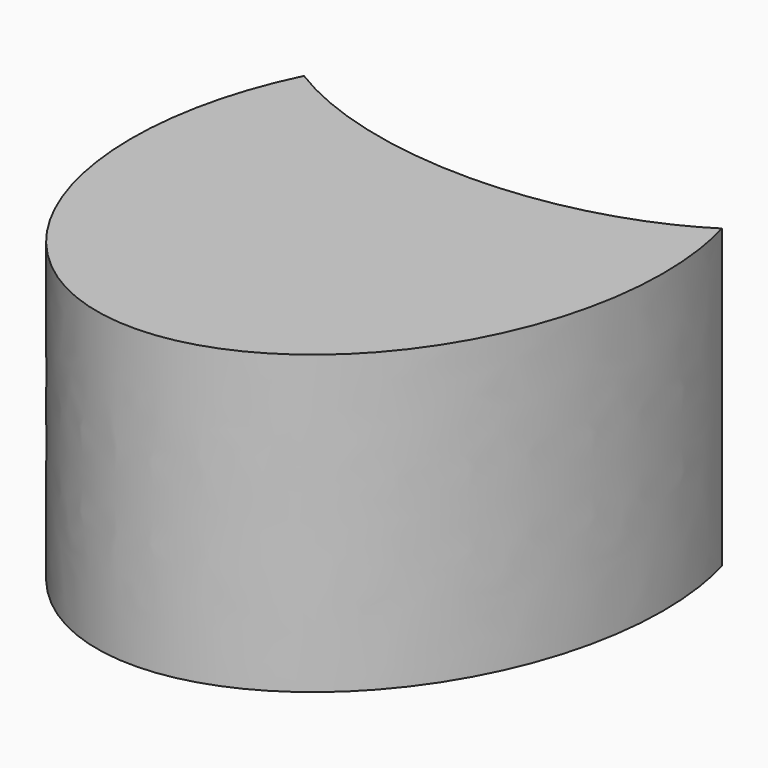
from build123d import *

# Parameters (mm, degrees)
F1_DEPTH = 58.5087388754


with BuildPart() as f1:
    # F0 (on Top) → F1 (new body)
    with BuildSketch(Plane.XY):
        with BuildLine():
            add(Edge.make_bspline(
                [(14.2470300198, -39.5426005125), (38.2923315966, -39.5426005125), (55.5904200639, -28.4467799127)],
                knots=[4.7123889804, 4.7123889804, 4.7123889804, 5.480253263, 5.480253263, 5.480253263], degree=2, weights=[1, 0.9271989483, 1]))
            add(Edge.make_bspline(
                [(-26.3468378231, -28.919277143), (-9.1994069513, -39.5426005125), (14.2470300198, -39.5426005125)],
                knots=[3.9618844196, 3.9618844196, 3.9618844196, 4.7123889804, 4.7123889804, 4.7123889804], degree=2, weights=[1, 0.9304151889, 1]))
            add(Edge.make_bspline(
                [(-26.3468378231, -28.919277143), (-67.0762721514, -111.3040250716), (5.7120753743, -110.8842857065), (78.5004229, -110.4645463414), (55.5904200639, -28.4467799127)],
                knots=[1.3428096618, 1.3428096618, 1.3428096618, 3.3660378607, 3.3660378607, 5.3892660597, 5.3892660597, 5.3892660597], degree=2, weights=[1, 0.5304931583, 1, 0.5304931583, 1]))
        make_face()
    extrude(amount=F1_DEPTH)


solid = f1.part
